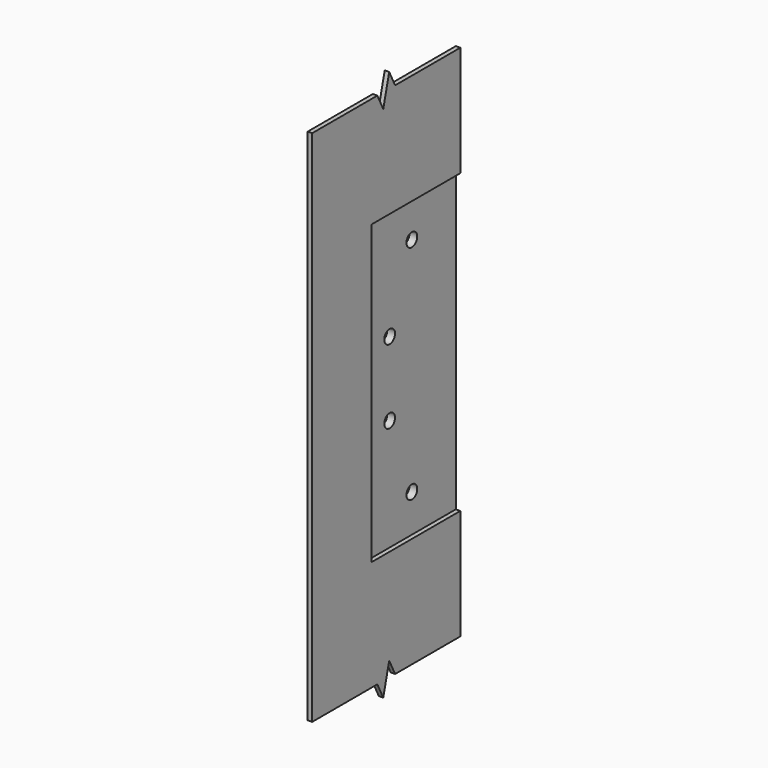
from build123d import *

# Parameters (mm, degrees)
F1_DEPTH = 1.524
F0_W     = 38.1
F0_H     = 101.996876
F0_R     = 2.3114
F2_DEPTH = 2.667


with BuildPart() as f1:
    # F0 (on Right) → F1 (new body)
    with BuildSketch(Plane.YZ):
        Polygon((0, 69.949219), (0, 88.9), (-27.94, 88.9), (-30.48, 93.98), (-33.02, 83.82), (-35.56, 88.9), (-63.5, 88.9), (-63.5, -88.9), (-35.56, -88.9), (-33.02, -93.98), (-30.48, -83.82), (-27.94, -88.9), (0, -88.9), (0, -69.949219), (-50.8, -69.949219), (-50.8, 69.949219), align=None)
        Polygon((0, 50.998438), (0, 69.949219), (-50.8, 69.949219), (-50.8, -69.949219), (0, -69.949219), (0, -50.998438), (-38.1, -50.998438), (-38.1, 50.998438), align=None)
    extrude(amount=F1_DEPTH)

    # F0 (on Right) → F2 (join)
    with BuildSketch(Plane.YZ):
        Polygon((0, 50.998438), (0, 69.949219), (-50.8, 69.949219), (-50.8, -69.949219), (0, -69.949219), (0, -50.998438), (-38.1, -50.998438), (-38.1, 50.998438), align=None)
        with Locations((-19.05, 0)):
            Rectangle(F0_W, F0_H)
        with Locations((-18.851562, -38.1)):
            Circle(F0_R, mode=Mode.SUBTRACT)
        with Locations((-28.376562, -12.7)):
            Circle(F0_R, mode=Mode.SUBTRACT)
        with Locations((-28.376562, 12.7)):
            Circle(F0_R, mode=Mode.SUBTRACT)
        with Locations((-18.851562, 38.1)):
            Circle(F0_R, mode=Mode.SUBTRACT)
    extrude(amount=-F2_DEPTH)


solid = f1.part
